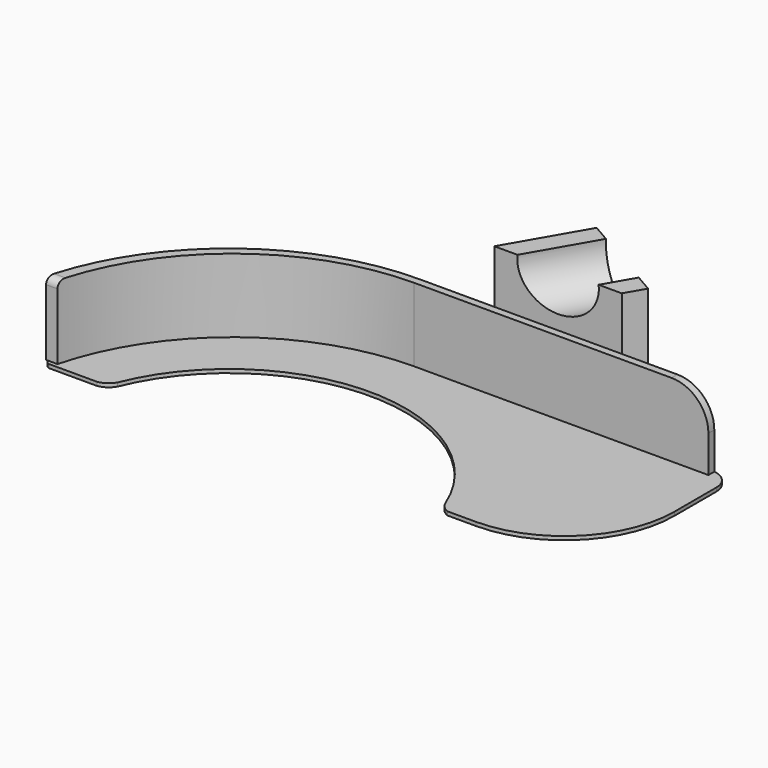
from build123d import *

# Parameters (mm, degrees)
PAD_DEPTH         = 1
PAD004_DEPTH      = 20
FILLET_R          = 10
FILLET001_R       = 2
PAD005_DEPTH      = 34.5
PAD005_DEPTH_BACK = 1
SKETCH005_R       = 9.6
POCKET_DEPTH      = 107.835631986


with BuildPart() as part:
    # Sketch → Pad (new body)
    with BuildSketch(Plane.XY):
        with BuildLine():
            ThreePointArc((2.407e-07, 65), (-39.2503215588, 51.8113139915), (-62.5726380514, 17.5973))
            ThreePointArc((-62.5726380514, 17.5973), (-62.2816568518, 16.2569186959), (-61.1956, 15.4192))
            Line((-61.1956, 15.4192), (-48.0942, 15.4192))
            ThreePointArc((-48.0942, 15.4192), (-46.0175682638, 16.2684180018), (-44.5213344809, 17.9402))
            ThreePointArc((44.6290648541, 17.6705), (0.1452101265, 47.9997803539), (-44.5213344809, 17.9402))
            ThreePointArc((44.6290648541, 17.6705), (45.6957884662, 16.2979684833), (47.1679586113, 15.3736))
            Line((47.1679586113, 15.3736), (54.9232114248, 15.3841578001))
            ThreePointArc((54.9232114248, 15.3841578001), (76.1100083043, 24.1853710213), (84.8823702407, 45.38413))
            Line((84.8823702407, 59.61183), (84.8823702407, 45.38413))
            ThreePointArc((84.8823702407, 59.61183), (83.3042117859, 63.4218415452), (79.4942002407, 65))
            Line((2.407e-07, 65), (79.4942002407, 65))
        make_face()
    extrude(amount=PAD_DEPTH)

    # Sketch001 → Pad004 (new body)
    with BuildSketch(Plane.XY.offset(1)):
        with BuildLine():
            ThreePointArc((6.04881e-05, 65), (-39.6936405321, 51.4724674103), (-62.8655421025, 16.5204))
            Line((-62.8655421025, 16.5204), (-59.7655421025, 16.5204))
            ThreePointArc((6.04881e-05, 63), (-37.8013201978, 49.9422727575), (-59.7655421025, 16.5204))
            Line((80.0000604881, 63), (6.04881e-05, 63))
            Line((80.0000604881, 65), (80.0000604881, 63))
            Line((6.04881e-05, 65), (80.0000604881, 65))
        make_face()
    extrude(amount=PAD004_DEPTH)

    # Fillet
    fillet_edges = [part.edges().sort_by_distance(p)[0] for p in [
        (80.00006, 64, 21),
    ]]
    fillet(fillet_edges, radius=FILLET_R)

    # Fillet001
    fillet001_edges = [part.edges().sort_by_distance(p)[0] for p in [
        (-61.315542, 16.5204, 21),
    ]]
    fillet(fillet001_edges, radius=FILLET001_R)

    # Sketch004 → Pad005 (new body, two sides)
    with BuildSketch(Plane.XY.offset(1)) as pad005_sk:
        Polygon((31.8675134595, 85.1961524227), (57.848275573, 70.1961524227), (54.848275573, 65), (20.2072594216, 65), align=None)
    extrude(amount=PAD005_DEPTH)
    extrude(pad005_sk.sketch, amount=-PAD005_DEPTH_BACK)

    # Sketch005 → Pocket (cut, through all)
    with BuildSketch(Plane(origin=(44.8578945162, 77.6961524227, 0), x_dir=(-0.8660254038, 0.5, 0), z_dir=(0.5, 0.8660254038, 0))):
        with Locations((0, 34.5)):
            Circle(SKETCH005_R)
    extrude(amount=-POCKET_DEPTH, mode=Mode.SUBTRACT)


solid = part.part
